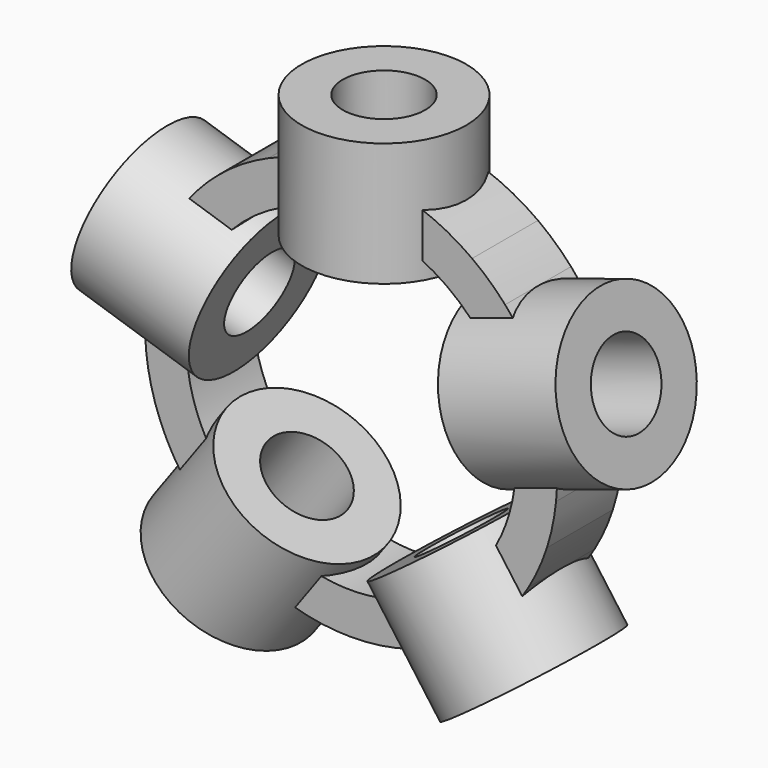
from build123d import *

# Parameters (mm, degrees)
F6_DEPTH = 10


with BuildPart() as f1:
    # F0 (on Front) → F1 (revolve)
    with BuildSketch(Plane.XZ):
        Polygon((10, 61.803398875), (10, 54.5379735949), (20, 47.2725483149), (20, 61.803398875), align=None)
        with BuildLine():
            Line((20, 47.2725483149), (10, 54.5379735949))
            Line((10, 54.5379735949), (10, 48.9897948557))
            ThreePointArc((10, 48.9897948557), (15.0831954164, 47.6707165462), (20, 45.8257569496))
            Line((20, 45.8257569496), (20, 47.2725483149))
        make_face()
        with BuildLine():
            ThreePointArc((20, 45.8257569496), (15.0831954164, 47.6707165462), (10, 48.9897948557))
            Line((10, 48.9897948557), (10, 38.7298334621))
            ThreePointArc((10, 38.7298334621), (15.1386791613, 37.0245917364), (20, 34.6410161514))
            Line((20, 34.6410161514), (20, 45.8257569496))
        make_face()
        with BuildLine():
            ThreePointArc((20, 34.6410161514), (15.1386791613, 37.0245917364), (10, 38.7298334621))
            Line((10, 38.7298334621), (10, 31.803398875))
            Line((10, 31.803398875), (20, 31.803398875))
            Line((20, 31.803398875), (20, 34.6410161514))
        make_face()
    revolve(axis=Axis((0, 0, 30.9016994375), (0, 0, 1)))


with BuildPart() as f2:
    # F0 (on Front) → F2 (revolve)
    with BuildSketch(Plane.XZ):
        Polygon((61.868695173, 9.5877353996), (54.9588651167, 7.3425955167), (51.1392050042, -4.4131095292), (64.9588651167, 0.0771702366), align=None)
        with BuildLine():
            Line((54.9588651167, 7.3425955167), (49.6822335732, 5.6281139984))
            ThreePointArc((49.6822335732, 5.6281139984), (49.9204951831, 2.8185387473), (50, 0))
            ThreePointArc((50, 0), (49.9407710815, -2.4329783778), (49.7632246485, -4.8601926484))
            Line((49.7632246485, -4.8601926484), (51.1392050042, -4.4131095292))
            Line((51.1392050042, -4.4131095292), (54.9588651167, 7.3425955167))
        make_face()
        with BuildLine():
            ThreePointArc((50, 0), (49.9204951831, 2.8185387473), (49.6822335732, 5.6281139984))
            Line((49.6822335732, 5.6281139984), (39.9244304329, 2.4576115661))
            ThreePointArc((39.9244304329, 2.4576115661), (39.9811031446, 1.2293865716), (40, 0))
            ThreePointArc((40, 0), (39.7808758147, -4.1811385307), (39.1259040294, -8.3164676327))
            Line((39.1259040294, -8.3164676327), (49.7632246485, -4.8601926484))
            ThreePointArc((49.7632246485, -4.8601926484), (49.9407710815, -2.4329783778), (50, 0))
        make_face()
        with BuildLine():
            ThreePointArc((40, 0), (39.9811031446, 1.2293865716), (39.9244304329, 2.4576115661))
            Line((39.9244304329, 2.4576115661), (33.3369996841, 0.3172255683))
            Line((33.3369996841, 0.3172255683), (36.4271696279, -9.1933395946))
            Line((36.4271696279, -9.1933395946), (39.1259040294, -8.3164676327))
            ThreePointArc((39.1259040294, -8.3164676327), (39.7808758147, -4.1811385307), (40, 0))
        make_face()
    revolve(axis=Axis((29.3892626146, 0, 9.5491502813), (0.9510565163, 0, 0.3090169944)))


with BuildPart() as f3:
    # F0 (on Front) → F3 (revolve)
    with BuildSketch(Plane.XZ):
        Polygon((28.2369564565, -55.8778525229), (23.9664466253, -50), (11.6057668503, -50), (20.1467865128, -61.7557050458), align=None)
        with BuildLine():
            Line((23.9664466253, -50), (20.7053089852, -45.5114291121))
            ThreePointArc((20.7053089852, -45.5114291121), (15.8175827308, -47.4320996431), (10.7553642226, -48.8295211981))
            Line((10.7553642226, -48.8295211981), (11.6057668503, -50))
            Line((11.6057668503, -50), (23.9664466253, -50))
        make_face()
        with BuildLine():
            ThreePointArc((10.7553642226, -48.8295211981), (15.8175827308, -47.4320996431), (20.7053089852, -45.5114291121))
            Line((20.7053089852, -45.5114291121), (14.674654989, -37.2109459831))
            ThreePointArc((14.674654989, -37.2109459831), (9.5150602809, -38.8518162748), (4.1811385307, -39.7808758147))
            Line((4.1811385307, -39.7808758147), (10.7553642226, -48.8295211981))
        make_face()
        with BuildLine():
            ThreePointArc((4.1811385307, -39.7808758147), (9.5150602809, -38.8518162748), (14.674654989, -37.2109459831))
            Line((14.674654989, -37.2109459831), (10.6033988877, -31.6073426917))
            Line((10.6033988877, -31.6073426917), (2.513228944, -37.4851952146))
            Line((2.513228944, -37.4851952146), (4.1811385307, -39.7808758147))
        make_face()
    revolve(axis=Axis((18.1635632001, 0, -25), (0.5877852523, 0, -0.8090169944)))


with BuildPart() as f4:
    # F0 (on Front) → F4 (revolve)
    with BuildSketch(Plane.XZ):
        with BuildLine():
            Line((-36.5418183057, -16.269465723), (-43.1160439976, -25.3181111064))
            ThreePointArc((-43.1160439976, -25.3181111064), (-40.2227055734, -29.7007399968), (-36.8856488727, -33.7557240662))
            Line((-36.8856488727, -33.7557240662), (-30.8549948765, -25.4552409372))
            ThreePointArc((-30.8549948765, -25.4552409372), (-34.0099577087, -21.0552315743), (-36.5418183057, -16.269465723))
        make_face()
        with BuildLine():
            Line((-34.873908719, -13.9737851229), (-36.5418183057, -16.269465723))
            ThreePointArc((-36.5418183057, -16.269465723), (-34.0099577087, -21.0552315743), (-30.8549948765, -25.4552409372))
            Line((-30.8549948765, -25.4552409372), (-26.7837387752, -19.8516376458))
            Line((-26.7837387752, -19.8516376458), (-34.873908719, -13.9737851229))
        make_face()
        with BuildLine():
            Line((-43.1160439976, -25.3181111064), (-43.9664466253, -26.4885899083))
            Line((-43.9664466253, -26.4885899083), (-40.1467865128, -38.2442949542))
            Line((-40.1467865128, -38.2442949542), (-36.8856488727, -33.7557240662))
            ThreePointArc((-36.8856488727, -33.7557240662), (-40.2227055734, -29.7007399968), (-43.1160439976, -25.3181111064))
        make_face()
        Polygon((-40.1467865128, -38.2442949542), (-43.9664466253, -26.4885899083), (-52.5074662878, -38.2442949542), (-44.417296344, -44.1221474771), align=None)
    revolve(axis=Axis((-18.1635632001, 0, -25), (-0.5877852523, 0, -0.8090169944)))


with BuildPart() as f5:
    # F0 (on Front) → F5 (revolve)
    with BuildSketch(Plane.XZ):
        Polygon((-48.7785252292, 26.3637258426), (-38.7785252292, 33.6291511226), (-52.5981853417, 38.1194308884), (-55.6883552855, 28.6088657255), align=None)
        with BuildLine():
            Line((-37.4025448735, 33.1820680034), (-38.7785252292, 33.6291511226))
            Line((-38.7785252292, 33.6291511226), (-48.7785252292, 26.3637258426))
            Line((-48.7785252292, 26.3637258426), (-43.5018936857, 24.6492443243))
            ThreePointArc((-43.5018936857, 24.6492443243), (-40.6765818946, 29.0760328341), (-37.4025448735, 33.1820680034))
        make_face()
        with BuildLine():
            Line((-26.7652242544, 29.7257930191), (-37.4025448735, 33.1820680034))
            ThreePointArc((-37.4025448735, 33.1820680034), (-40.6765818946, 29.0760328341), (-43.5018936857, 24.6492443243))
            Line((-43.5018936857, 24.6492443243), (-33.7440905454, 21.478741892))
            ThreePointArc((-33.7440905454, 21.478741892), (-30.5343701009, 25.8389675209), (-26.7652242544, 29.7257930191))
        make_face()
        with BuildLine():
            Line((-24.0664898529, 28.8489210572), (-26.7652242544, 29.7257930191))
            ThreePointArc((-26.7652242544, 29.7257930191), (-30.5343701009, 25.8389675209), (-33.7440905454, 21.478741892))
            Line((-33.7440905454, 21.478741892), (-27.1566597966, 19.3383558942))
            Line((-27.1566597966, 19.3383558942), (-24.0664898529, 28.8489210572))
        make_face()
    revolve(axis=Axis((-29.3892626146, 0, 9.5491502813), (-0.9510565163, 0, 0.3090169944)))


with BuildPart() as f6:
    # F0 (on Front) → F6 (new body, symmetric)
    with BuildSketch(Plane.XZ):
        with BuildLine():
            ThreePointArc((-20, 45.8257569496), (-24.8404351768, 43.3930038166), (-29.3892625184, 40.4508497887))
            ThreePointArc((-29.3892625184, 40.4508497887), (-33.5930823359, 37.0338334388), (-37.4025448735, 33.1820680034))
            Line((-37.4025448735, 33.1820680034), (-26.7652242544, 29.7257930191))
            ThreePointArc((-26.7652242544, 29.7257930191), (-23.5114100917, 32.360679775), (-20, 34.6410161514))
            Line((-20, 34.6410161514), (-20, 45.8257569496))
        make_face()
        with BuildLine():
            Line((-10, 38.7298334621), (-10, 48.9897948557))
            ThreePointArc((-10, 48.9897948557), (-15.0831954163, 47.6707165462), (-20, 45.8257569496))
            Line((-20, 45.8257569496), (-20, 34.6410161514))
            ThreePointArc((-20, 34.6410161514), (-15.1386791613, 37.0245917364), (-10, 38.7298334621))
        make_face()
        with BuildLine():
            Line((-26.7652242544, 29.7257930191), (-37.4025448735, 33.1820680034))
            ThreePointArc((-37.4025448735, 33.1820680034), (-40.6765818946, 29.0760328341), (-43.5018936857, 24.6492443243))
            Line((-43.5018936857, 24.6492443243), (-33.7440905454, 21.478741892))
            ThreePointArc((-33.7440905454, 21.478741892), (-30.5343701009, 25.8389675209), (-26.7652242544, 29.7257930191))
        make_face()
    extrude(amount=F6_DEPTH, both=True)


with BuildPart() as f6b:
    # F0 (on Front) → F6, piece 2 (new body, symmetric)
    with BuildSketch(Plane.XZ):
        with BuildLine():
            ThreePointArc((37.4025448735, 33.1820680034), (33.5930825951, 37.0338332037), (29.3892630845, 40.4508493774))
            ThreePointArc((29.3892630845, 40.4508493774), (24.8404354805, 43.3930036428), (20, 45.8257569496))
            Line((20, 45.8257569496), (20, 34.6410161514))
            ThreePointArc((20, 34.6410161514), (23.5114100917, 32.360679775), (26.7652242544, 29.7257930191))
            Line((26.7652242544, 29.7257930191), (37.4025448735, 33.1820680034))
        make_face()
        with BuildLine():
            ThreePointArc((43.5018936857, 24.6492443243), (40.6765818946, 29.0760328341), (37.4025448735, 33.1820680034))
            Line((37.4025448735, 33.1820680034), (26.7652242544, 29.7257930191))
            ThreePointArc((26.7652242544, 29.7257930191), (30.5343701009, 25.8389675209), (33.7440905454, 21.478741892))
            Line((33.7440905454, 21.478741892), (43.5018936857, 24.6492443243))
        make_face()
        with BuildLine():
            ThreePointArc((20, 45.8257569496), (15.0831954164, 47.6707165462), (10, 48.9897948557))
            Line((10, 48.9897948557), (10, 38.7298334621))
            ThreePointArc((10, 38.7298334621), (15.1386791613, 37.0245917364), (20, 34.6410161514))
            Line((20, 34.6410161514), (20, 45.8257569496))
        make_face()
    extrude(amount=F6_DEPTH, both=True)


with BuildPart() as f6c:
    # F0 (on Front) → F6, piece 3 (new body, symmetric)
    with BuildSketch(Plane.XZ):
        with BuildLine():
            ThreePointArc((47.5528259965, -15.4508491594), (48.9453157066, -10.2154818966), (49.7632246485, -4.8601926484))
            Line((49.7632246485, -4.8601926484), (39.1259040294, -8.3164676327))
            ThreePointArc((39.1259040294, -8.3164676327), (38.0422606518, -12.360679775), (36.5418183057, -16.269465723))
            Line((36.5418183057, -16.269465723), (43.1160439976, -25.3181111064))
            ThreePointArc((43.1160439976, -25.3181111064), (45.6021020468, -20.5048357447), (47.5528259965, -15.4508491594))
        make_face()
        with BuildLine():
            ThreePointArc((36.8856488727, -33.7557240662), (40.2227055734, -29.7007399968), (43.1160439976, -25.3181111064))
            Line((43.1160439976, -25.3181111064), (36.5418183057, -16.269465723))
            ThreePointArc((36.5418183057, -16.269465723), (34.0099577087, -21.0552315743), (30.8549948765, -25.4552409372))
            Line((30.8549948765, -25.4552409372), (36.8856488727, -33.7557240662))
        make_face()
        with BuildLine():
            ThreePointArc((50, 0), (49.9204951831, 2.8185387473), (49.6822335732, 5.6281139984))
            Line((49.6822335732, 5.6281139984), (39.9244304329, 2.4576115661))
            ThreePointArc((39.9244304329, 2.4576115661), (39.9811031446, 1.2293865716), (40, 0))
            ThreePointArc((40, 0), (39.7808758147, -4.1811385307), (39.1259040294, -8.3164676327))
            Line((39.1259040294, -8.3164676327), (49.7632246485, -4.8601926484))
            ThreePointArc((49.7632246485, -4.8601926484), (49.9407710815, -2.4329783778), (50, 0))
        make_face()
    extrude(amount=F6_DEPTH, both=True)


with BuildPart() as f6d:
    # F0 (on Front) → F6, piece 4 (new body, symmetric)
    with BuildSketch(Plane.XZ):
        with BuildLine():
            Line((-4.1811385307, -39.7808758147), (-10.7553642226, -48.8295211981))
            ThreePointArc((-10.7553642226, -48.8295211981), (-5.4094334199, -49.7065189897), (2.28e-08, -50))
            ThreePointArc((2.28e-08, -50), (5.4094334425, -49.7065189873), (10.7553642226, -48.8295211981))
            Line((10.7553642226, -48.8295211981), (4.1811385307, -39.7808758147))
            ThreePointArc((4.1811385307, -39.7808758147), (0, -40), (-4.1811385307, -39.7808758147))
        make_face()
        with BuildLine():
            Line((-14.674654989, -37.2109459831), (-20.7053089852, -45.5114291121))
            ThreePointArc((-20.7053089852, -45.5114291121), (-15.8175827308, -47.4320996431), (-10.7553642226, -48.8295211981))
            Line((-10.7553642226, -48.8295211981), (-4.1811385307, -39.7808758147))
            ThreePointArc((-4.1811385307, -39.7808758147), (-9.5150602809, -38.8518162748), (-14.674654989, -37.2109459831))
        make_face()
        with BuildLine():
            ThreePointArc((10.7553642226, -48.8295211981), (15.8175827308, -47.4320996431), (20.7053089852, -45.5114291121))
            Line((20.7053089852, -45.5114291121), (14.674654989, -37.2109459831))
            ThreePointArc((14.674654989, -37.2109459831), (9.5150602809, -38.8518162748), (4.1811385307, -39.7808758147))
            Line((4.1811385307, -39.7808758147), (10.7553642226, -48.8295211981))
        make_face()
    extrude(amount=F6_DEPTH, both=True)


with BuildPart() as f6e:
    # F0 (on Front) → F6, piece 5 (new body, symmetric)
    with BuildSketch(Plane.XZ):
        with BuildLine():
            Line((-39.1259040294, -8.3164676327), (-49.7632246485, -4.8601926484))
            ThreePointArc((-49.7632246485, -4.8601926484), (-48.9453156992, -10.2154819322), (-47.552825974, -15.4508492285))
            ThreePointArc((-47.552825974, -15.4508492285), (-45.6021020319, -20.5048357778), (-43.1160439976, -25.3181111064))
            Line((-43.1160439976, -25.3181111064), (-36.5418183057, -16.269465723))
            ThreePointArc((-36.5418183057, -16.269465723), (-38.0422606518, -12.360679775), (-39.1259040294, -8.3164676327))
        make_face()
        with BuildLine():
            Line((-39.9244304329, 2.4576115661), (-49.6822335732, 5.6281139984))
            ThreePointArc((-49.6822335732, 5.6281139984), (-49.9985093209, 0.3860902595), (-49.7632246485, -4.8601926484))
            Line((-49.7632246485, -4.8601926484), (-39.1259040294, -8.3164676327))
            ThreePointArc((-39.1259040294, -8.3164676327), (-39.8905883674, -2.9565114081), (-39.9244304329, 2.4576115661))
        make_face()
        with BuildLine():
            Line((-36.5418183057, -16.269465723), (-43.1160439976, -25.3181111064))
            ThreePointArc((-43.1160439976, -25.3181111064), (-40.2227055734, -29.7007399968), (-36.8856488727, -33.7557240662))
            Line((-36.8856488727, -33.7557240662), (-30.8549948765, -25.4552409372))
            ThreePointArc((-30.8549948765, -25.4552409372), (-34.0099577087, -21.0552315743), (-36.5418183057, -16.269465723))
        make_face()
    extrude(amount=F6_DEPTH, both=True)


solid = Compound([f1.part, f2.part, f3.part, f4.part, f5.part, f6.part, f6b.part, f6c.part, f6d.part, f6e.part])
